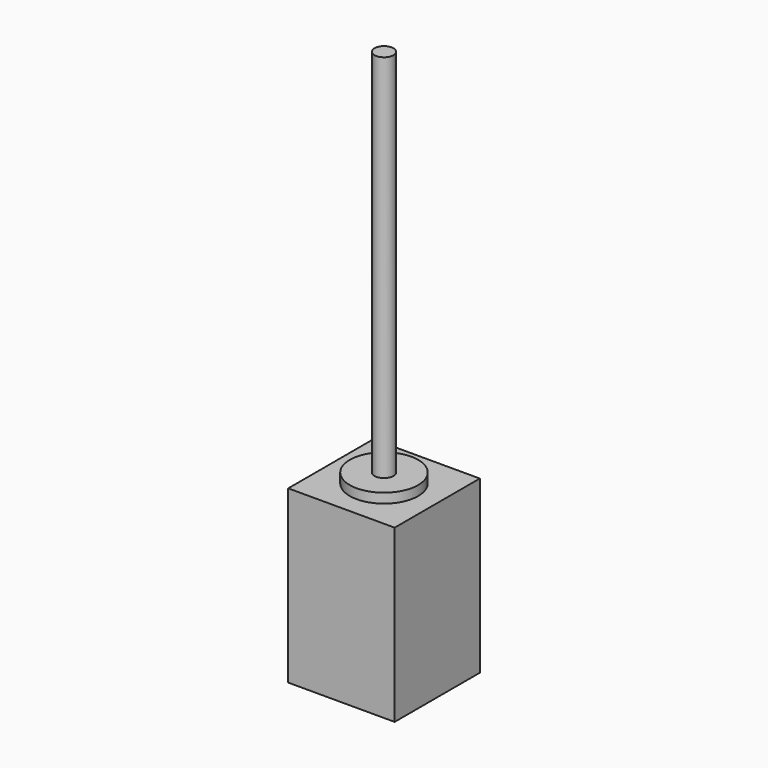
from build123d import *

# Parameters (mm, degrees)
F0_W     = 28
F0_H     = 28
F0_R     = 9
F0_R_2   = 2.5
F1_DEPTH = 45
F2_DEPTH = 100
F3_DEPTH = 2.54


with BuildPart() as f1:
    # F0 (on Top) → F1 (new body)
    with BuildSketch(Plane.XY):
        Rectangle(F0_W, F0_H)
        Circle(F0_R, mode=Mode.SUBTRACT)
        Circle(F0_R)
        Circle(F0_R_2, mode=Mode.SUBTRACT)
        Circle(F0_R_2)
    extrude(amount=-F1_DEPTH)

    # F0 (on Top) → F2 (join)
    with BuildSketch(Plane.XY):
        Circle(F0_R_2)
    extrude(amount=F2_DEPTH)

    # F0 (on Top) → F3 (join)
    with BuildSketch(Plane.XY):
        Circle(F0_R)
        Circle(F0_R_2, mode=Mode.SUBTRACT)
    extrude(amount=F3_DEPTH)


solid = f1.part
